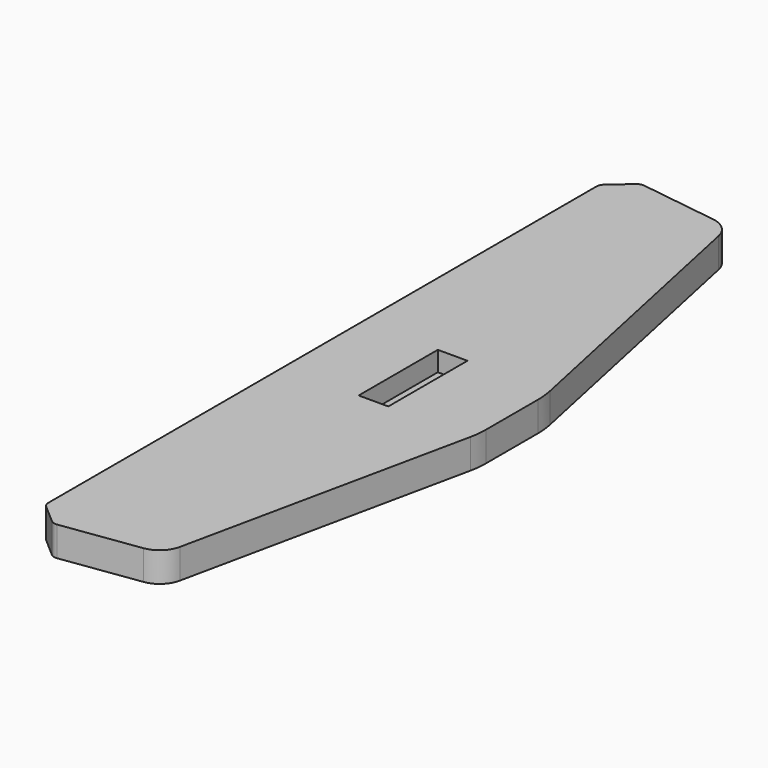
from build123d import *

# Parameters (mm, degrees)
PAD_DEPTH    = 18
SKETCH001_W  = 18
SKETCH001_H  = 60
POCKET_DEPTH = 12
CHAMFER_SIZE = 15
FILLET_R     = 5
FILLET001_R  = 15
FILLET002_R  = 50


with BuildPart() as part:
    # Sketch → Pad (new body)
    with BuildSketch(Plane.XY):
        Polygon((0, 225), (0, -225), (74.720813, -214.498675), (115, -25), (115, 25), (74.720813, 214.498675), align=None)
    extrude(amount=PAD_DEPTH)

    # Sketch001 → Pocket (cut)
    with BuildSketch(Plane.XY.offset(18)):
        with Locations((55, 0)):
            Rectangle(SKETCH001_W, SKETCH001_H)
    extrude(amount=-POCKET_DEPTH, mode=Mode.SUBTRACT)

    # Chamfer
    chamfer_edges = [part.edges().sort_by_distance(p)[0] for p in [
        (0, -225, 9),
        (0, 225, 9),
    ]]
    chamfer(chamfer_edges, length=CHAMFER_SIZE)

    # Fillet
    fillet_edges = [part.edges().sort_by_distance(p)[0] for p in [
        (14.854021, 222.912403, 9),
        (0, 210, 9),
        (0, -210, 9),
        (14.854021, -222.912403, 9),
    ]]
    fillet(fillet_edges, radius=FILLET_R)

    # Fillet001
    fillet001_edges = [part.edges().sort_by_distance(p)[0] for p in [
        (74.720813, -214.498675, 9),
        (74.720813, 214.498675, 9),
    ]]
    fillet(fillet001_edges, radius=FILLET001_R)

    # Fillet002
    fillet002_edges = [part.edges().sort_by_distance(p)[0] for p in [
        (115, -25, 9),
        (115, 25, 9),
    ]]
    fillet(fillet002_edges, radius=FILLET002_R)


solid = part.part
